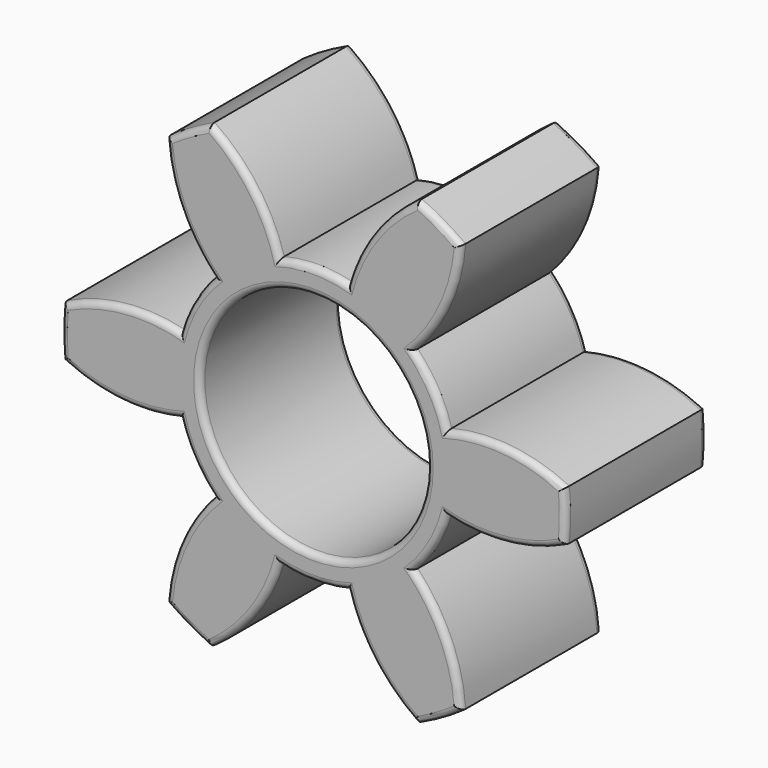
from build123d import *

# Parameters (mm, degrees)
F0_R     = 9
F1_DEPTH = 14
F2_R     = 0.5


with BuildPart() as f1:
    # F0 (on Front) → F1 (new body)
    with BuildSketch(Plane.XZ):
        with BuildLine():
            ThreePointArc((-2.693426, 10.665151), (-4.788439, 14.936409), (-8.217824, 18.233688))
            ThreePointArc((-8.217824, 18.233688), (-10, 17.320508), (-11.681925, 16.233688))
            ThreePointArc((-11.681925, 16.233688), (-10.54109, 11.615115), (-7.889579, 7.665151))
            ThreePointArc((-7.889579, 7.665151), (-9.526279, 5.5), (-10.583005, 3))
            ThreePointArc((-10.583005, 3), (-15.32953, 3.321294), (-19.899749, 2))
            ThreePointArc((-19.899749, 2), (-20, 0), (-19.899749, -2))
            ThreePointArc((-19.899749, -2), (-15.32953, -3.321294), (-10.583005, -3))
            ThreePointArc((-10.583005, -3), (-9.526279, -5.5), (-7.889579, -7.665151))
            ThreePointArc((-7.889579, -7.665151), (-10.54109, -11.615115), (-11.681925, -16.233688))
            ThreePointArc((-11.681925, -16.233688), (-10, -17.320508), (-8.217824, -18.233688))
            ThreePointArc((-8.217824, -18.233688), (-4.788439, -14.936409), (-2.693426, -10.665151))
            ThreePointArc((-2.693426, -10.665151), (0, -11), (2.693426, -10.665151))
            ThreePointArc((2.693426, -10.665151), (4.788439, -14.936409), (8.217824, -18.233688))
            ThreePointArc((8.217824, -18.233688), (10, -17.320508), (11.681925, -16.233688))
            ThreePointArc((11.681925, -16.233688), (10.54109, -11.615115), (7.889579, -7.665151))
            ThreePointArc((7.889579, -7.665151), (9.526279, -5.5), (10.583005, -3))
            ThreePointArc((10.583005, -3), (15.32953, -3.321294), (19.899749, -2))
            ThreePointArc((19.899749, -2), (20, 0), (19.899749, 2))
            ThreePointArc((19.899749, 2), (15.32953, 3.321294), (10.583005, 3))
            ThreePointArc((10.583005, 3), (9.526279, 5.5), (7.889579, 7.665151))
            ThreePointArc((7.889579, 7.665151), (10.54109, 11.615115), (11.681925, 16.233688))
            ThreePointArc((11.681925, 16.233688), (10, 17.320508), (8.217824, 18.233688))
            ThreePointArc((8.217824, 18.233688), (4.788439, 14.936409), (2.693426, 10.665151))
            ThreePointArc((2.693426, 10.665151), (0, 11), (-2.693426, 10.665151))
        make_face()
        Circle(F0_R, mode=Mode.SUBTRACT)
    extrude(amount=F1_DEPTH)

    # F2
    f2_edges = [f1.edges().sort_by_distance(p)[0] for p in [
        (10.54109, -14, 11.615115),
        (10, -14, 17.320508),
        (4.788439, -14, 14.936409),
        (0, -14, 11),
        (-4.788439, -14, 14.936409),
        (-10, -14, 17.320508),
        (-10.54109, -14, 11.615115),
        (-9.526279, -14, 5.5),
        (-15.32953, -14, 3.321294),
        (-20, -14, 0),
        (-15.32953, -14, -3.321294),
        (-9.526279, -14, -5.5),
        (-10.54109, -14, -11.615115),
        (-10, -14, -17.320508),
        (-4.788439, -14, -14.936409),
        (0, -14, -11),
        (4.788439, -14, -14.936409),
        (10, -14, -17.320508),
        (10.54109, -14, -11.615115),
        (9.526279, -14, -5.5),
        (15.32953, -14, -3.321294),
        (20, -14, 0),
        (15.32953, -14, 3.321294),
        (9.526279, -14, 5.5),
        (-9, -14, 0),
        (10.54109, 0, 11.615115),
        (10, 0, 17.320508),
        (4.788439, 0, 14.936409),
        (0, 0, 11),
        (-4.788439, 0, 14.936409),
        (-10, 0, 17.320508),
        (-10.54109, 0, 11.615115),
        (-9.526279, 0, 5.5),
        (-15.32953, 0, 3.321294),
        (-20, 0, 0),
        (-15.32953, 0, -3.321294),
        (-9.526279, 0, -5.5),
        (-10.54109, 0, -11.615115),
        (-10, 0, -17.320508),
        (-4.788439, 0, -14.936409),
        (0, 0, -11),
        (4.788439, 0, -14.936409),
        (10, 0, -17.320508),
        (10.54109, 0, -11.615115),
        (9.526279, 0, -5.5),
        (15.32953, 0, -3.321294),
        (20, 0, 0),
        (15.32953, 0, 3.321294),
        (9.526279, 0, 5.5),
        (-9, 0, 0),
    ]]
    fillet(f2_edges, radius=F2_R)


solid = f1.part
